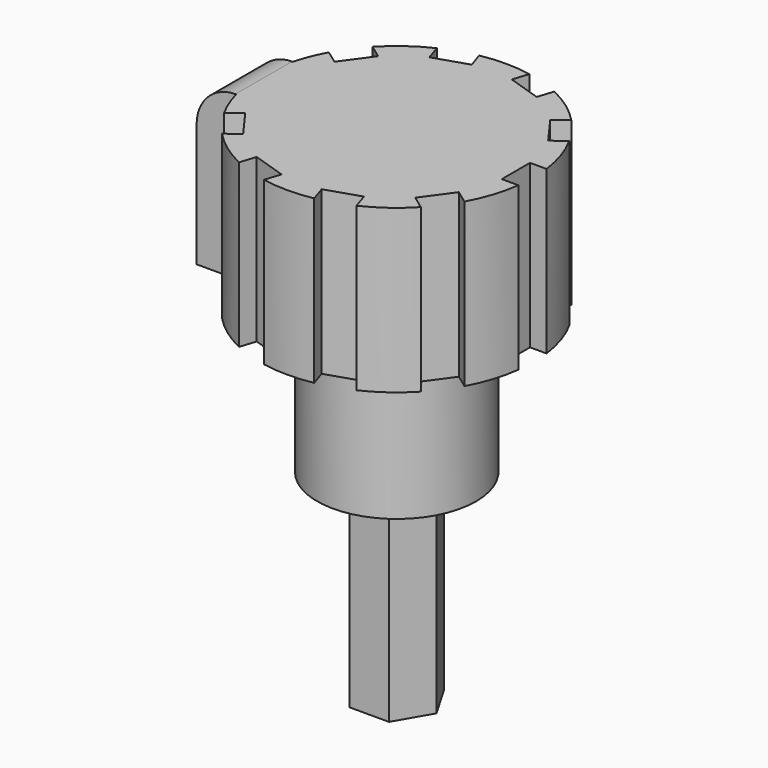
from build123d import *

# Parameters (mm, degrees)
F1_DEPTH  = 5.65
F2_R      = 2.25
F3_DEPTH  = 4
F4_R      = 3.875
F5_DEPTH  = 4.6
F7_DEPTH  = 5
F9_COUNT  = 10
F12_DEPTH = 4.6
F13_R     = 1.1


with BuildPart() as f1:
    # F0 (on Top) → F1 (new body)
    with BuildSketch(Plane.XY):
        Polygon((-0.5625, -0.974279), (0.5625, -0.974279), (1.125, 0), (0.5625, 0.974279), (-0.5625, 0.974279), (-1.125, 0), align=None)
    extrude(amount=F1_DEPTH)

    # F2 (on face) → F3 (join)
    with BuildSketch(Plane.XY.offset(5.65)):
        Circle(F2_R)
    extrude(amount=F3_DEPTH)

    # F4 (on face) → F5 (join)
    with BuildSketch(Plane.XY.offset(9.65)):
        Circle(F4_R)
    extrude(amount=F5_DEPTH)


with BuildPart() as f7:
    # F6 (on face) → F7 (new body)
    with BuildSketch(Plane.XY.offset(14.25)):
        with BuildLine():
            Line((3.842607, -0.5), (4.375, -0.5))
            Line((4.375, -0.5), (4.375, 0.5))
            Line((4.375, 0.5), (3.842607, 0.5))
            ThreePointArc((3.842607, 0.5), (3.866893, 0.250524), (3.875, 0))
            ThreePointArc((3.875, 0), (3.866893, -0.250524), (3.842607, -0.5))
        make_face()
        with BuildLine():
            Line((3.375, -0.5), (3.842607, -0.5))
            ThreePointArc((3.842607, -0.5), (3.866893, -0.250524), (3.875, 0))
            ThreePointArc((3.875, 0), (3.866893, 0.250524), (3.842607, 0.5))
            Line((3.842607, 0.5), (3.375, 0.5))
            Line((3.375, 0.5), (3.375, -0.5))
        make_face()
    extrude(amount=-F7_DEPTH)


with BuildPart() as f9_1:
    # F9: instance of F7
    add(f7.part.rotate(Axis((0, 0, 7.362194), (0, 0, -1)), 1 * 360 / F9_COUNT))


with BuildPart() as f9_2:
    # F9: instance of F7
    add(f7.part.rotate(Axis((0, 0, 7.362194), (0, 0, -1)), 2 * 360 / F9_COUNT))


with BuildPart() as f9_3:
    # F9: instance of F7
    add(f7.part.rotate(Axis((0, 0, 7.362194), (0, 0, -1)), 3 * 360 / F9_COUNT))


with BuildPart() as f9_4:
    # F9: instance of F7
    add(f7.part.rotate(Axis((0, 0, 7.362194), (0, 0, -1)), 4 * 360 / F9_COUNT))


with BuildPart() as f9_5:
    # F9: instance of F7
    add(f7.part.rotate(Axis((0, 0, 7.362194), (0, 0, -1)), 5 * 360 / F9_COUNT))


with BuildPart() as f9_6:
    # F9: instance of F7
    add(f7.part.rotate(Axis((0, 0, 7.362194), (0, 0, -1)), 6 * 360 / F9_COUNT))


with BuildPart() as f9_7:
    # F9: instance of F7
    add(f7.part.rotate(Axis((0, 0, 7.362194), (0, 0, -1)), 7 * 360 / F9_COUNT))


with BuildPart() as f9_8:
    # F9: instance of F7
    add(f7.part.rotate(Axis((0, 0, 7.362194), (0, 0, -1)), 8 * 360 / F9_COUNT))


with BuildPart() as f9_9:
    # F9: instance of F7
    add(f7.part.rotate(Axis((0, 0, 7.362194), (0, 0, -1)), 9 * 360 / F9_COUNT))


with BuildPart() as f1_1:
    add(f1.part)

    # F10: cut F7, F9_1, F9_2, F9_3, F9_4, F9_5, F9_6, F9_7, F9_8, F9_9
    add(f7.part, mode=Mode.SUBTRACT)
    add(f9_1.part, mode=Mode.SUBTRACT)
    add(f9_2.part, mode=Mode.SUBTRACT)
    add(f9_3.part, mode=Mode.SUBTRACT)
    add(f9_4.part, mode=Mode.SUBTRACT)
    add(f9_5.part, mode=Mode.SUBTRACT)
    add(f9_6.part, mode=Mode.SUBTRACT)
    add(f9_7.part, mode=Mode.SUBTRACT)
    add(f9_8.part, mode=Mode.SUBTRACT)
    add(f9_9.part, mode=Mode.SUBTRACT)

    # F11 (on face) → F12 (join)
    with BuildSketch(Plane.XY.offset(14.25)):
        with BuildLine():
            Line((-4.86289, -1), (-3.743745, -1))
            ThreePointArc((-3.743745, -1), (-3.801405, -0.751627), (-3.842607, -0.5))
            Line((-3.842607, -0.5), (-3.375, -0.5))
            Line((-3.375, -0.5), (-3.375, 0.5))
            Line((-3.375, 0.5), (-3.842607, 0.5))
            ThreePointArc((-3.842607, 0.5), (-3.801405, 0.751627), (-3.743745, 1))
            Line((-3.743745, 1), (-4.86289, 1))
            Line((-4.86289, 1), (-4.86289, -1))
        make_face()
    extrude(amount=-F12_DEPTH)

    # F13
    f13_edges = [f1_1.edges().sort_by_distance(p)[0] for p in [
        (-4.86289, 0, 14.25),
    ]]
    fillet(f13_edges, radius=F13_R)


solid = f1_1.part
